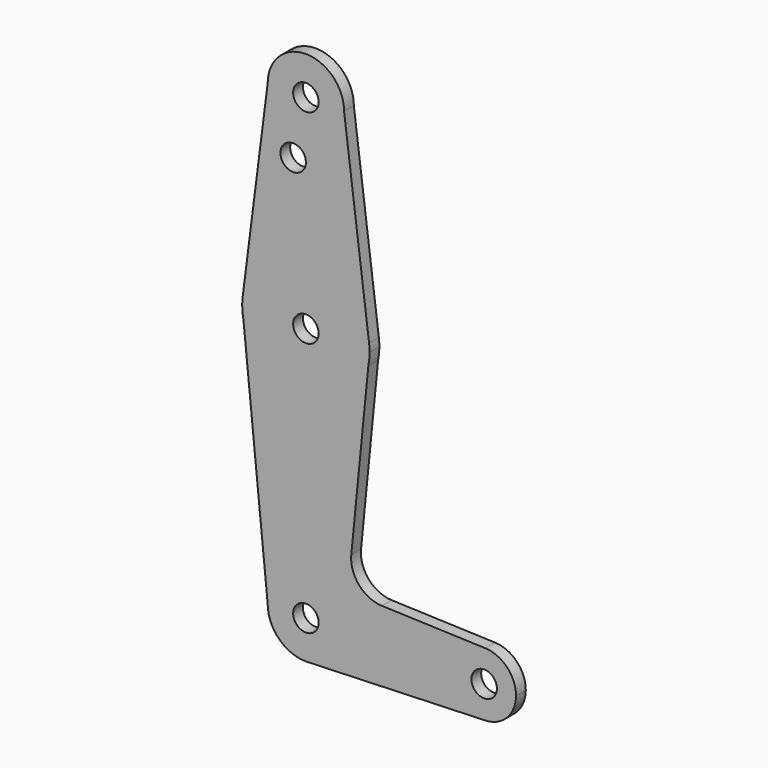
from build123d import *

# Parameters (mm, degrees)
F0_R     = 3.175
F1_DEPTH = 3.048


with BuildPart() as f1:
    # F0 (on Front) → F1 (new body)
    with BuildSketch(Plane.XZ):
        with BuildLine():
            ThreePointArc((0, -9.525), (0.3388863295, -9.5189695375), (0.6773435479, -9.500885786))
            Line((0.6773435479, -9.500885786), (0, -9.525))
        make_face()
        with BuildLine():
            ThreePointArc((-15.875, 63.5), (-15.7962153946, 61.9203784605), (-15.5606435644, 60.3564356436))
            Line((-15.5606435644, 60.3564356436), (-15.875, 63.5))
        make_face()
        with BuildLine():
            Line((15.875, 63.5), (15.5652161214, 60.3791552277))
            ThreePointArc((15.5652161214, 60.3791552277), (15.7973641936, 61.9319089516), (15.875, 63.5))
        make_face()
        with BuildLine():
            ThreePointArc((9.525, 114.3), (0, 123.825), (-9.525, 114.3))
            ThreePointArc((-9.525, 114.3), (0, 104.775), (9.525, 114.3))
        make_face()
        with Locations((0, 114.3)):
            Circle(F0_R, mode=Mode.SUBTRACT)
        with BuildLine():
            ThreePointArc((44.7334821429, 7.9324362036), (36.5125000183, 0.0005387766), (44.7324052746, -7.9324746146))
            ThreePointArc((44.7324052746, -7.9324746146), (50.1616327839, -5.5119104847), (52.3875, 0))
            ThreePointArc((52.3875, 0), (50.1620069047, 5.5115227815), (44.7334821429, 7.9324362036))
        make_face()
        with Locations((44.45, 0)):
            Circle(F0_R, mode=Mode.SUBTRACT)
        with BuildLine():
            ThreePointArc((0.6773435479, -9.500885786), (6.9705567315, -6.4912990883), (9.525, 0))
            ThreePointArc((9.525, 0), (0, 9.525), (-9.525, 0))
            ThreePointArc((-9.525, 0), (-6.7351920908, -6.7351920908), (0, -9.525))
            Line((0, -9.525), (0.6773435479, -9.500885786))
        make_face()
        Circle(F0_R, mode=Mode.SUBTRACT)
        with BuildLine():
            Line((-9.525, 114.3), (-15.7474569047, 65.5082893304))
            ThreePointArc((-15.7474569047, 65.5082893304), (0, 79.375), (15.7474569047, 65.5082893304))
            Line((15.7474569047, 65.5082893304), (9.525, 114.3))
            ThreePointArc((9.525, 114.3), (0, 104.775), (-9.525, 114.3))
        make_face()
        with Locations((-3.175, 100.0252)):
            Circle(F0_R, mode=Mode.SUBTRACT)
        with BuildLine():
            Line((-15.875, 63.5), (-15.5606435644, 60.3564356436))
            ThreePointArc((-15.5606435644, 60.3564356436), (0.0115875772, 47.625004229), (15.5652161214, 60.3791552277))
            Line((15.5652161214, 60.3791552277), (15.875, 63.5))
            ThreePointArc((15.875, 63.5), (15.8430821396, 64.5061676396), (15.7474569047, 65.5082893304))
            ThreePointArc((15.7474569047, 65.5082893304), (0, 79.375), (-15.7474569047, 65.5082893304))
            ThreePointArc((-15.7474569047, 65.5082893304), (-15.8430821396, 64.5061676396), (-15.875, 63.5))
        make_face()
        with Locations((0, 63.5)):
            Circle(F0_R, mode=Mode.SUBTRACT)
        with BuildLine():
            ThreePointArc((-9.525, 0), (0, 9.525), (9.525, 0))
            ThreePointArc((9.525, 0), (6.9705567315, -6.4912990883), (0.6773435479, -9.500885786))
            Line((0.6773435479, -9.500885786), (44.7324052746, -7.9324746146))
            ThreePointArc((44.7324052746, -7.9324746146), (36.5125000183, 0.0005387766), (44.7334821429, 7.9324362036))
            Line((44.7334821429, 7.9324362036), (18.9446799888, 8.8540528052))
            ThreePointArc((18.9446799888, 8.8540528052), (13.2414922116, 11.5684990835), (11.317295715, 17.5844809038))
            Line((11.317295715, 17.5844809038), (15.5652161214, 60.3791552277))
            ThreePointArc((15.5652161214, 60.3791552277), (0.0115875772, 47.625004229), (-15.5606435644, 60.3564356436))
            Line((-15.5606435644, 60.3564356436), (-9.525, 0))
        make_face()
    extrude(amount=F1_DEPTH)


solid = f1.part
